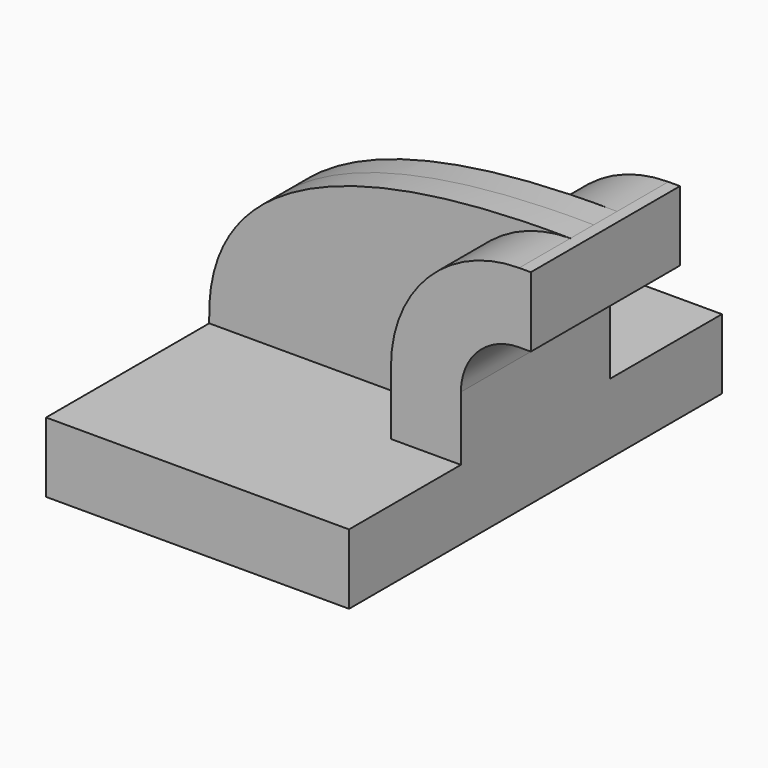
from build123d import *

# Parameters (mm, degrees)
F1_DEPTH = 63.5
F2_DEPTH = 25.4
F3_DEPTH = 7.9375


with BuildPart() as f1:
    # F0 (on Front) → F1 (new body, symmetric)
    with BuildSketch(Plane.XZ):
        Polygon((-41.275, -9.525), (41.275, -9.525), (41.275, 9.525), (22.225, 9.525), (-41.275, 9.525), align=None)
    extrude(amount=F1_DEPTH, both=True)

    # F0 (on Front) → F2 (join, symmetric)
    with BuildSketch(Plane.XZ):
        with BuildLine():
            Line((22.225, 9.525), (41.275, 9.525))
            Line((41.275, 9.525), (41.275, 27.0002))
            ThreePointArc((41.275, 27.0002), (45.92468, 38.22552), (57.15, 42.8752))
            Line((57.15, 42.8752), (60.325, 42.8752))
            Line((60.325, 42.8752), (60.325, 61.9252))
            Line((60.325, 61.9252), (57.15, 61.9252))
            ThreePointArc((57.15, 61.9252), (32.454296, 51.695904), (22.225, 27.0002))
            Line((22.225, 27.0002), (22.225, 9.525))
        make_face()
    extrude(amount=F2_DEPTH, both=True)

    # F0 (on Front) → F3 (join, symmetric)
    with BuildSketch(Plane.XZ):
        with BuildLine():
            add(Edge.make_bspline(
                [(-41.275, 9.525), (-42.692475, 46.227396), (-4.809058, 62.667362), (57.15, 61.9252)],
                knots=[0, 0, 0, 0, 111.504536, 111.504536, 111.504536, 111.504536], degree=3))
            Line((-41.275, 9.525), (22.225, 9.525))
            Line((22.225, 9.525), (22.225, 27.0002))
            ThreePointArc((22.225, 27.0002), (32.454296, 51.695904), (57.15, 61.9252))
        make_face()
    extrude(amount=F3_DEPTH, both=True)


solid = f1.part
